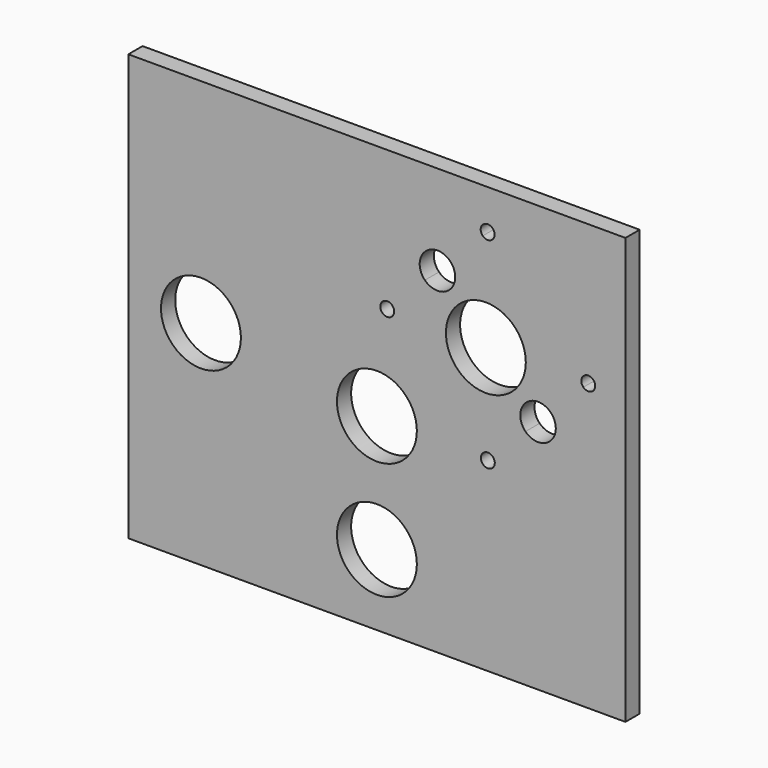
from build123d import *

# Parameters (mm, degrees)
F0_W     = 177.8
F0_H     = 101.6
F0_R     = 14.2875
F0_H_2   = 50.8
F1_DEPTH = 6.35


with BuildPart() as f1:
    # F0 (on Front) → F1 (new body)
    with BuildSketch(Plane.XZ):
        with Locations((0, 76.2)):
            Rectangle(F0_W, F0_H)
        with Locations((-62.933081, 50.8)):
            Circle(F0_R, mode=Mode.SUBTRACT)
        with Locations((0, 41.9608)):
            Circle(F0_R, mode=Mode.SUBTRACT)
        with BuildLine():
            ThreePointArc((42.165347, 40.935914), (37.376426, 39.983338), (41.436277, 42.696044))
            ThreePointArc((41.436277, 42.696044), (41.975868, 41.88849), (42.165347, 40.935914))
        make_face(mode=Mode.SUBTRACT)
        with BuildLine():
            ThreePointArc((6.186256, 76.892011), (1.397336, 75.939435), (5.457187, 78.652141))
            ThreePointArc((5.457187, 78.652141), (5.996777, 77.844587), (6.186256, 76.892011))
        make_face(mode=Mode.SUBTRACT)
        with Locations((38.97307, 76.2)):
            Circle(F0_R, mode=Mode.SUBTRACT)
        with BuildLine():
            ThreePointArc((62.126788, 63.386554), (63.503295, 61.326466), (63.98666, 58.896426))
            ThreePointArc((63.98666, 58.896426), (60.066699, 53.029791), (53.146531, 54.406298))
            ThreePointArc((53.146531, 54.406298), (53.146531, 63.386554), (62.126788, 63.386554))
        make_face(mode=Mode.SUBTRACT)
        with BuildLine():
            ThreePointArc((78.086372, 76.856938), (76.549747, 74.557218), (73.837042, 75.096808))
            ThreePointArc((73.837042, 75.096808), (74.644596, 79.156659), (78.086372, 76.856938))
        make_face(mode=Mode.SUBTRACT)
        with BuildLine():
            ThreePointArc((26.147697, 99.342651), (27.524204, 97.282563), (28.007569, 94.852523))
            ThreePointArc((28.007569, 94.852523), (24.087609, 88.985888), (17.167441, 90.362395))
            ThreePointArc((17.167441, 90.362395), (17.167441, 99.342651), (26.147697, 99.342651))
        make_face(mode=Mode.SUBTRACT)
        with BuildLine():
            ThreePointArc((42.107281, 112.813035), (40.570657, 110.513314), (37.857951, 111.052905))
            ThreePointArc((37.857951, 111.052905), (38.665505, 115.112756), (42.107281, 112.813035))
        make_face(mode=Mode.SUBTRACT)
        Rectangle(F0_W, F0_H_2)
        Circle(F0_R, mode=Mode.SUBTRACT)
    extrude(amount=F1_DEPTH)


solid = f1.part
